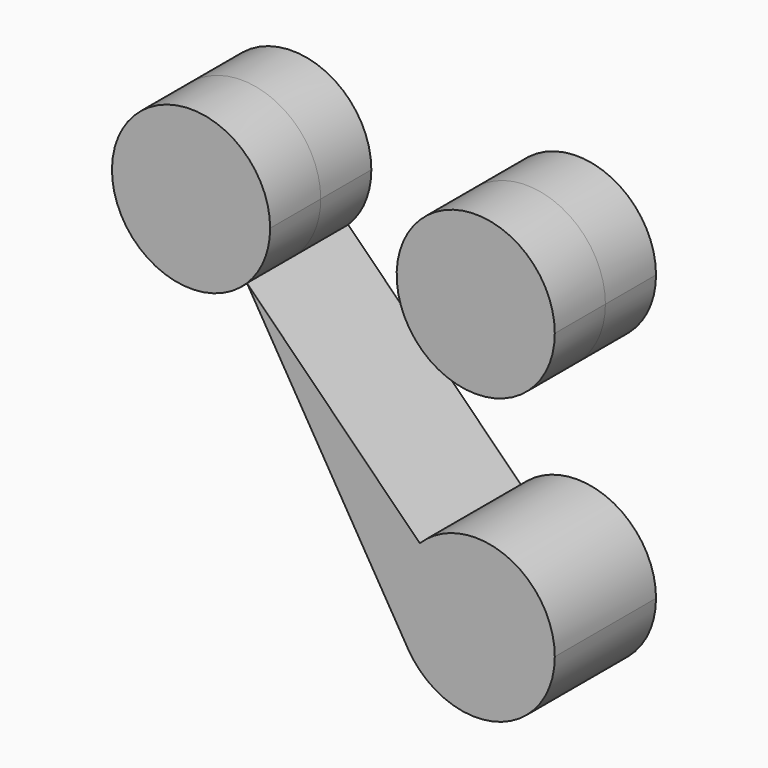
from build123d import *

# Parameters (mm, degrees)
F1_DEPTH = 20


with BuildPart() as f1:
    # F0 (on Front) → F1 (new body, symmetric)
    with BuildSketch(Plane.XZ):
        with BuildLine():
            ThreePointArc((-17.6776695297, 17.6776695297), (-24.8096957555, 3.0787979016), (-21.4623902815, -12.820522743))
            ThreePointArc((-21.4623902815, -12.820522743), (6.6498211616, -24.0993750649), (25, 0))
            ThreePointArc((25, 0), (17.6776695297, 17.6776695297), (0, 25))
            Line((0, 25), (0, 0))
            Line((0, 0), (-17.6776695297, 17.6776695297))
        make_face()
        with BuildLine():
            Line((-72.3223304703, 72.3223304703), (-21.4623902815, -12.820522743))
            ThreePointArc((-21.4623902815, -12.820522743), (-24.8096957555, 3.0787979016), (-17.6776695297, 17.6776695297))
            Line((-17.6776695297, 17.6776695297), (-72.3223304703, 72.3223304703))
        make_face()
        with BuildLine():
            ThreePointArc((0, 25), (-9.5670858091, 23.0969883128), (-17.6776695297, 17.6776695297))
            Line((-17.6776695297, 17.6776695297), (0, 0))
            Line((0, 0), (0, 25))
        make_face()
    extrude(amount=F1_DEPTH, both=True)


with BuildPart() as f1b:
    # F0 (on Front) → F1, piece 2 (new body, symmetric)
    with BuildSketch(Plane.XZ):
        with BuildLine():
            ThreePointArc((-65, 90), (-113.0969883128, 99.5670858091), (-72.3223304703, 72.3223304703))
            ThreePointArc((-72.3223304703, 72.3223304703), (-66.9030116872, 80.4329141909), (-65, 90))
        make_face()
    extrude(amount=F1_DEPTH, both=True)


with BuildPart() as f1c:
    # F0 (on Front) → F1, piece 3 (new body, symmetric)
    with BuildSketch(Plane.XZ):
        with BuildLine():
            ThreePointArc((25, 90), (-17.6776695297, 107.6776695297), (0, 65))
            ThreePointArc((0, 65), (17.6776695297, 72.3223304703), (25, 90))
        make_face()
    extrude(amount=F1_DEPTH, both=True)


solid = Compound([f1.part, f1b.part, f1c.part])
